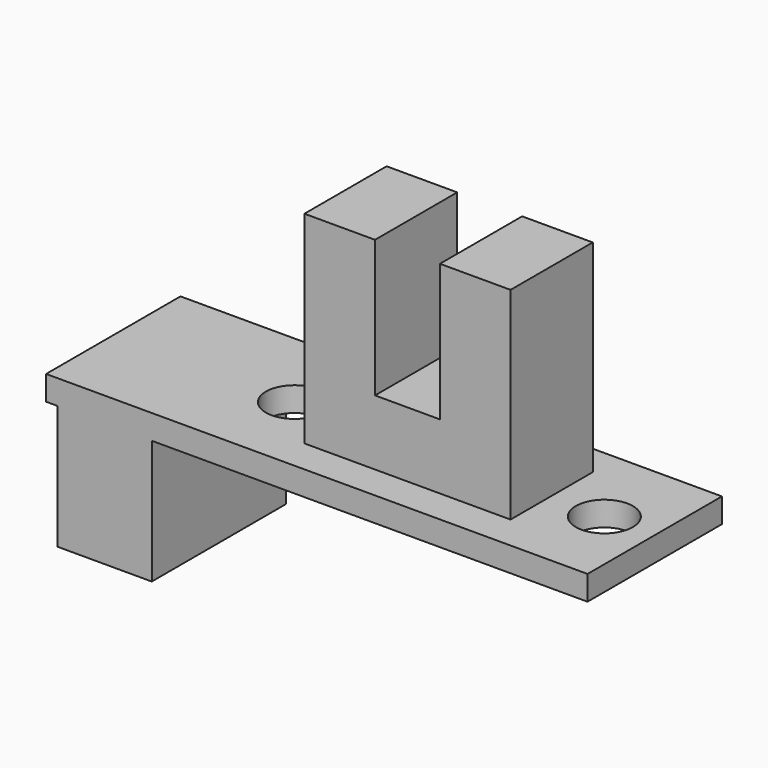
from build123d import *

# Parameters (mm, degrees)
F0_W     = 33.2
F0_H     = 10.3
F0_R     = 1.75
F1_DEPTH = 1.5
F2_W     = 12.64
F2_H     = 6.3
F3_DEPTH = 4
F4_W     = 4.33
F4_H     = 6.3
F5_DEPTH = 8.4
F6_W     = 5.78
F6_H     = 10.3
F7_DEPTH = 7.6


with BuildPart() as f1:
    # F0 (on Top) → F1 (new body)
    with BuildSketch(Plane.XY):
        with Locations((16.6, -5.15)):
            Rectangle(F0_W, F0_H)
        with Locations((11.11, -5.15)):
            Circle(F0_R, mode=Mode.SUBTRACT)
        with Locations((30.11, -5.15)):
            Circle(F0_R, mode=Mode.SUBTRACT)
    extrude(amount=F1_DEPTH)

    # F2 (on face) → F3 (join)
    with BuildSketch(Plane.XY.offset(1.5)):
        with Locations((20.48, -5.05)):
            Rectangle(F2_W, F2_H)
    extrude(amount=F3_DEPTH)

    # F4 (on face) → F5 (join)
    with BuildSketch(Plane.XY.offset(5.5)):
        with Locations((16.325, -5.05)):
            Rectangle(F4_W, F4_H)
        with Locations((24.635, -5.05)):
            Rectangle(F4_W, F4_H)
    extrude(amount=F5_DEPTH)

    # F6 (on face) → F7 (join)
    with BuildSketch(Plane(origin=(0, 0, 0), x_dir=(1, 0, 0), z_dir=(0, 0, -1))):
        with Locations((3.59, 5.15)):
            Rectangle(F6_W, F6_H)
    extrude(amount=F7_DEPTH)


solid = f1.part
